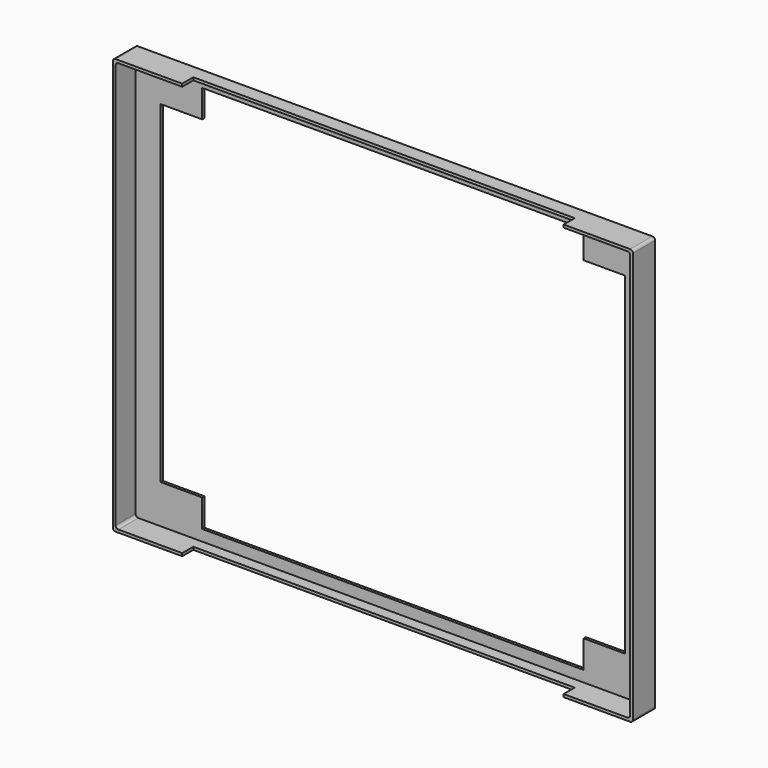
from build123d import *

# Parameters (mm, degrees)
F0_W      = 850.9
F0_H      = 25.4
F1_DEPTH  = 5.08
F3_DEPTH  = 5.08
F5_DEPTH  = 5.08
F7_DEPTH  = 5.08
F8_W      = 50.8
F8_H      = 762
F9_DEPTH  = 5.08
F10_R     = 5.08
F11_W     = 76.2
F11_H     = 50.8
F12_DEPTH = 5.08


with BuildPart() as f1:
    # F0 (on Front) → F1 (new body)
    with BuildSketch(Plane.XZ):
        Polygon((50.8, 50.8), (0, 0), (50.8, 0), (50.8, 25.4), align=None)
        Polygon((0, 762), (0, 0), (50.8, 50.8), (50.8, 711.2), align=None)
        Polygon((50.8, 762), (0, 762), (50.8, 711.2), (50.8, 736.6), align=None)
        with Locations((476.25, 12.7)):
            Rectangle(F0_W, F0_H)
        with Locations((476.25, 749.3)):
            Rectangle(F0_W, F0_H)
        Polygon((901.7, 25.4), (901.7, 0), (952.5, 0), (901.7, 50.8), align=None)
        Polygon((952.5, 762), (901.7, 762), (901.7, 736.6), (901.7, 711.2), align=None)
        Polygon((901.7, 50.8), (952.5, 0), (952.5, 762), (901.7, 711.2), align=None)
    extrude(amount=F1_DEPTH)

    # F2 (on face) → F3 (join)
    with BuildSketch(Plane(origin=(0, 0, 0), x_dir=(1, 0, 0), z_dir=(0, 0, -1))):
        Polygon((0, 50.8), (0, 0), (952.5, 0), (952.5, 50.8), (825.5, 50.8), (825.5, 25.4), (127, 25.4), (127, 50.8), align=None)
    extrude(amount=-F3_DEPTH)

    # F4 (on face) → F5 (join)
    with BuildSketch(Plane.XY.offset(762)):
        Polygon((952.5, 0), (0, 0), (0, -50.8), (127, -50.8), (127, -25.4), (825.5, -25.4), (825.5, -50.8), (952.5, -50.8), align=None)
    extrude(amount=-F5_DEPTH)

    # F6 (on face) → F7 (join)
    with BuildSketch(Plane(origin=(0, 0, 0), x_dir=(0, -1, 0), z_dir=(-1, 0, 0))):
        Polygon((0.254638, 756.92), (0.254638, 0), (50.8, 0), (50.8, 762), align=None)
    extrude(amount=-F7_DEPTH)

    # F8 (on face) → F9 (join)
    with BuildSketch(Plane.YZ.offset(952.5)):
        with Locations((-25.4, 381)):
            Rectangle(F8_W, F8_H)
    extrude(amount=-F9_DEPTH)

    # F10
    f10_edges = [f1.edges().sort_by_distance(p)[0] for p in [
        (0, -25.4, 0),
        (5.08, -27.94, 5.08),
        (5.08, -27.94, 756.92),
        (0, -25.4, 762),
        (952.5, -25.4, 762),
        (947.42, -27.94, 756.92),
        (952.5, -25.4, 0),
        (947.42, -27.94, 5.08),
    ]]
    fillet(f10_edges, radius=F10_R)

    # F11 (on face) → F12 (join)
    with BuildSketch(Plane.XZ.offset(5.08)):
        with Locations((863.6, 711.2)):
            Rectangle(F11_W, F11_H)
        with Locations((863.6, 50.8)):
            Rectangle(F11_W, F11_H)
        with Locations((88.9, 50.8)):
            Rectangle(F11_W, F11_H)
        with Locations((88.9, 711.2)):
            Rectangle(F11_W, F11_H)
    extrude(amount=-F12_DEPTH)


solid = f1.part
